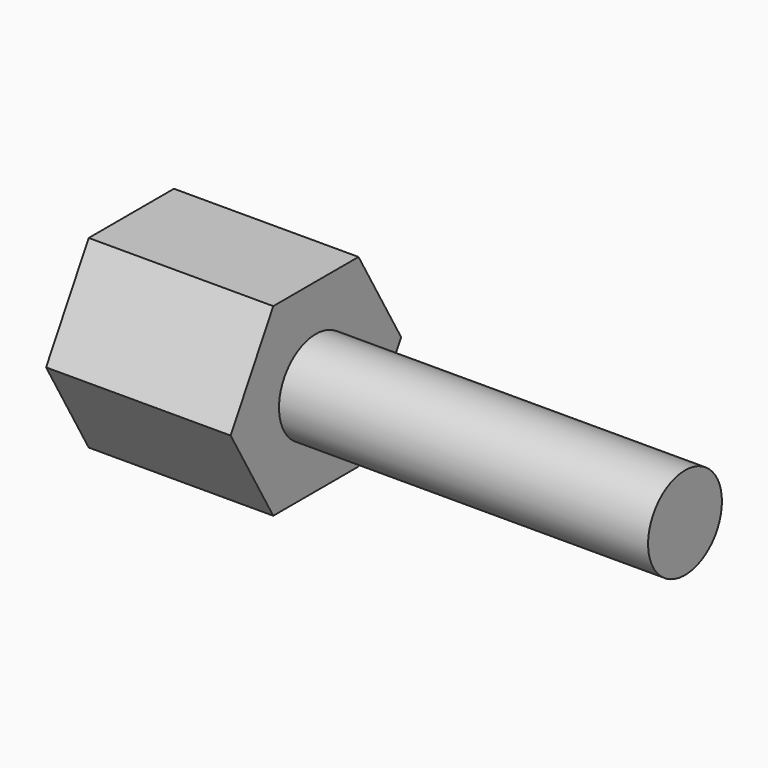
from build123d import *

# Parameters (mm, degrees)
F1_DEPTH = 38.1
F2_R     = 3.175
F3_DEPTH = 25.4


with BuildPart() as f1:
    # F0 (on Right) → F1 (new body)
    with BuildSketch(Plane.YZ):
        Polygon((7.332348, 0), (3.666174, 6.35), (-3.666174, 6.35), (-7.332348, 0), (-3.666174, -6.35), (3.666174, -6.35), align=None)
    extrude(amount=F1_DEPTH)

    # F2 (on face) → F3 (cut)
    with BuildSketch(Plane.YZ.offset(38.1)):
        Polygon((-3.666174, -6.35), (3.666174, -6.35), (7.332348, 0), (3.666174, 6.35), (-3.666174, 6.35), (-7.332348, 0), align=None)
        Circle(F2_R, mode=Mode.SUBTRACT)
    extrude(amount=-F3_DEPTH, mode=Mode.SUBTRACT)


solid = f1.part
